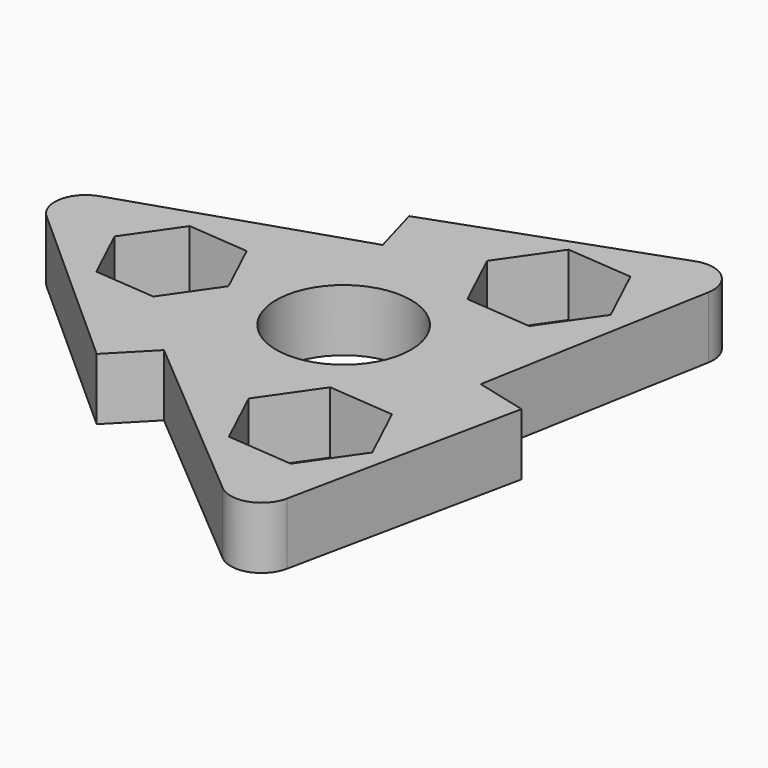
from build123d import *

# Parameters (mm, degrees)
F0_R     = 10.9
F1_DEPTH = 10
F2_R     = 5


with BuildPart() as f1:
    # F0 (on Top) → F1 (new body)
    with BuildSketch(Plane.XY):
        Polygon((-9.80383, 20.148403), (-54.278841, 5.529257), (-19.380784, -25.677659), (-13.404791, -19.551069), (22.350943, -49.771483), (31.927897, -3.945421), (23.634117, -1.833355), (31.927897, 44.242227), (-12.121617, 28.38706), align=None)
        Polygon((24.612059, -24.987273), (18.487568, -33.808305), (7.786085, -32.914856), (3.209092, -23.200375), (9.333583, -14.379343), (20.035067, -15.272792), align=None, mode=Mode.SUBTRACT)
        Polygon((-33.468196, -8.133371), (-37.68838, 0.823798), (-32.041335, 8.957169), (-22.174107, 8.133371), (-17.953923, -0.823798), (-23.600968, -8.957169), align=None, mode=Mode.SUBTRACT)
        Circle(F0_R, mode=Mode.SUBTRACT)
        Polygon((9.333583, 33.808305), (20.035067, 32.914856), (24.612059, 23.200375), (18.487568, 14.379343), (7.786085, 15.272792), (3.209092, 24.987273), align=None, mode=Mode.SUBTRACT)
    extrude(amount=F1_DEPTH)

    # F2
    f2_edges = [f1.edges().sort_by_distance(p)[0] for p in [
        (22.350943, -49.771483, 5),
        (31.927897, 44.242227, 5),
        (-54.278841, 5.529257, 5),
    ]]
    fillet(f2_edges, radius=F2_R)


solid = f1.part
